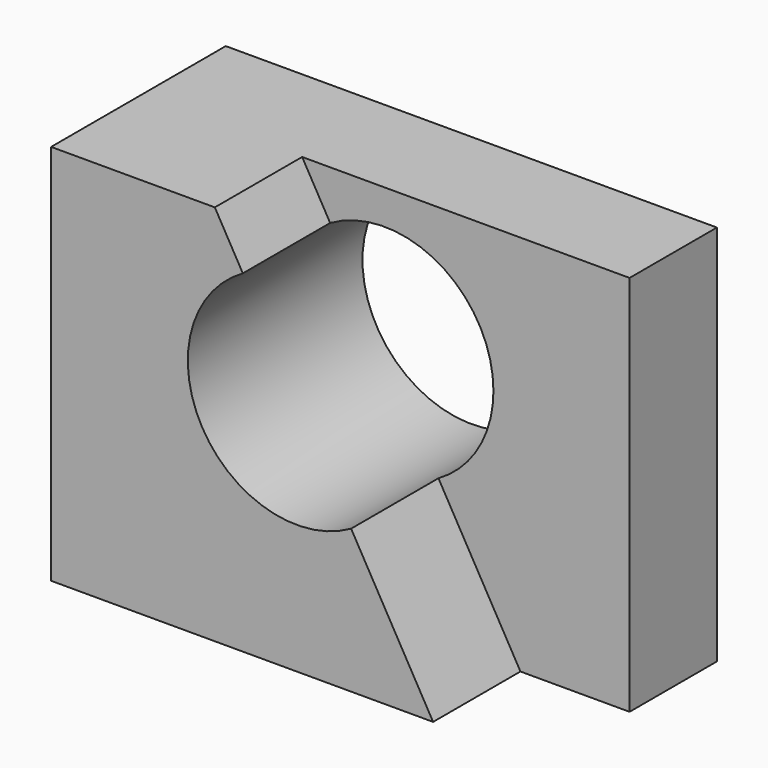
from build123d import *

# Parameters (mm, degrees)
F0_W     = 57.15
F0_H     = 44.45
F1_DEPTH = 25.4
F3_DEPTH = 12.7
F4_R     = 12.7
F5_DEPTH = 27940


with BuildPart() as f1:
    # F0 (on Front) → F1 (new body)
    with BuildSketch(Plane.XZ):
        with Locations((-0.033397, 17.489623)):
            Rectangle(F0_W, F0_H)
    extrude(amount=F1_DEPTH)

    # F2 (on face) → F3 (cut)
    with BuildSketch(Plane.XZ.offset(25.4)):
        Polygon((28.541603, 39.714623), (-9.558397, 39.714623), (15.841603, -4.735377), (28.541603, -4.735377), align=None)
    extrude(amount=-F3_DEPTH, mode=Mode.SUBTRACT)

    # F4 (on face) → F5 (cut)
    with BuildSketch(Plane.XZ.offset(25.4)):
        with Locations((0, 22.987428)):
            Circle(F4_R)
    extrude(amount=-F5_DEPTH, mode=Mode.SUBTRACT)


solid = f1.part
